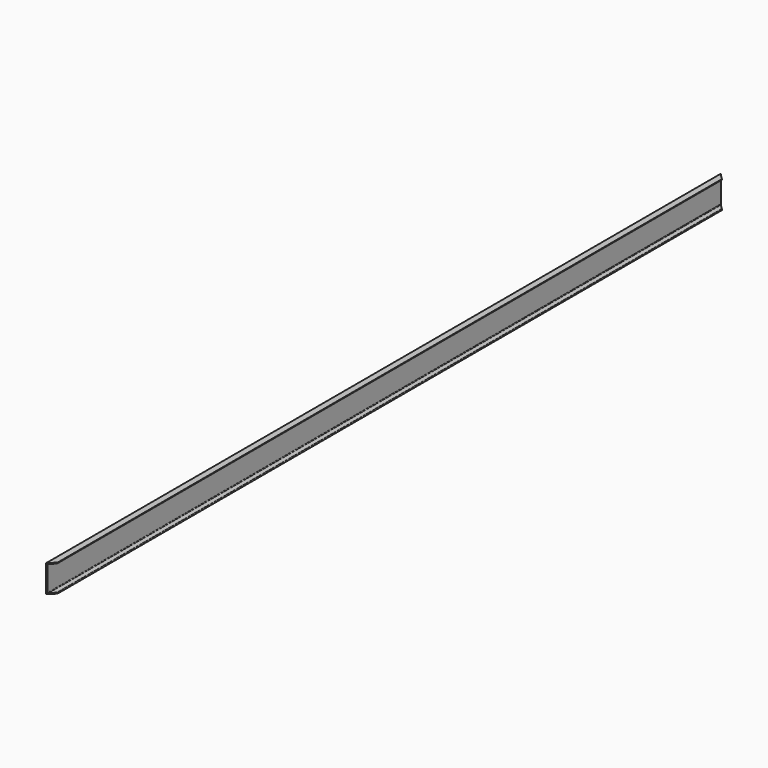
from build123d import *

# Parameters (mm, degrees)
F1_DEPTH = 11734.8
F2_R     = 7.62
F4_DEPTH = 381.001
F5_DEPTH = 381.001


with BuildPart() as f1:
    # F0 (on Front) → F1 (new body)
    with BuildSketch(Plane.XZ):
        Polygon((44.45, 177.8), (44.45, 190.5), (-44.45, 190.5), (-44.45, -190.5), (44.45, -190.5), (44.45, -177.8), (-31.75, -177.8), (-31.75, 177.8), align=None)
    extrude(amount=F1_DEPTH)

    # F2
    f2_edges = [f1.edges().sort_by_distance(p)[0] for p in [
        (44.45, -5867.4, -177.8),
        (-31.75, -5867.4, -177.8),
        (-31.75, -5867.4, 177.8),
        (44.45, -5867.4, 177.8),
    ]]
    fillet(f2_edges, radius=F2_R)

    # F3 (on face) → F4 (cut, through all)
    with BuildSketch(Plane.XY.offset(190.5)):
        Polygon((44.45, 0), (-44.45, 0), (44.45, -88.9), align=None)
    extrude(amount=-F4_DEPTH, mode=Mode.SUBTRACT)

    # F3 (on face) → F5 (cut, through all)
    with BuildSketch(Plane.XY.offset(190.5)):
        Polygon((44.45, -11645.9), (-44.45, -11734.8), (44.45, -11734.8), align=None)
    extrude(amount=-F5_DEPTH, mode=Mode.SUBTRACT)


solid = f1.part
